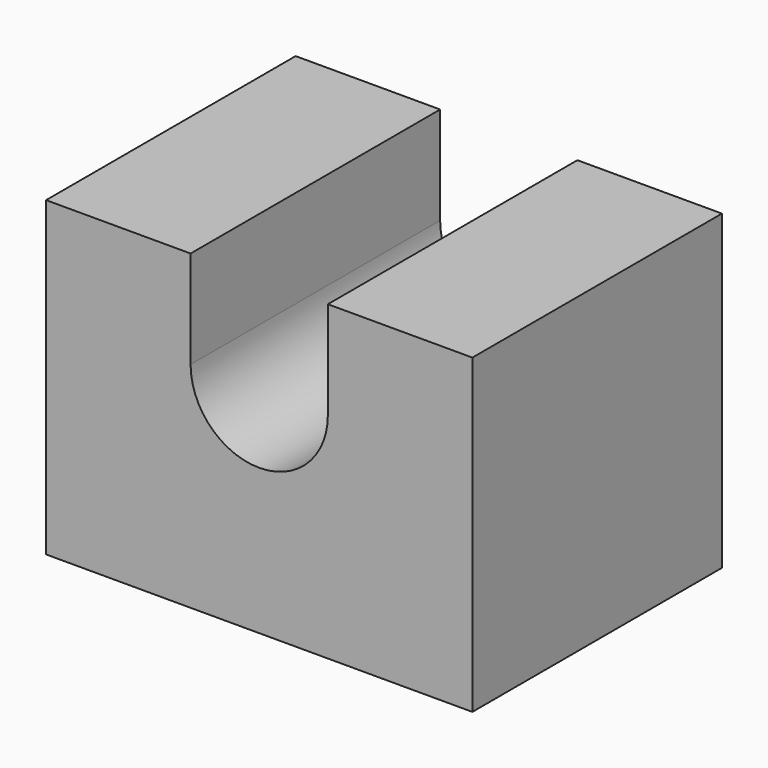
from build123d import *

# Parameters (mm, degrees)
F0_W     = 20.5
F0_H     = 15
F1_DEPTH = 15
F3_DEPTH = 15.001


with BuildPart() as f1:
    # F0 (on Front) → F1 (new body)
    with BuildSketch(Plane.XZ):
        with Locations((10.25, 7.5)):
            Rectangle(F0_W, F0_H)
    extrude(amount=F1_DEPTH)

    # F2 (on face) → F3 (cut, through all)
    with BuildSketch(Plane.XZ.offset(15)):
        with BuildLine():
            ThreePointArc((6.950002, 10.303269), (10.248365, 7), (13.55, 10.3))
            ThreePointArc((13.55, 10.3), (10.251635, 13.6), (6.950002, 10.303269))
        make_face()
        with BuildLine():
            ThreePointArc((6.950002, 10.303269), (10.251635, 13.6), (13.55, 10.3))
            Line((13.55, 10.3), (13.55, 15))
            Line((13.55, 15), (6.950002, 15))
            Line((6.950002, 15), (6.950002, 10.303269))
        make_face()
    extrude(amount=-F3_DEPTH, mode=Mode.SUBTRACT)


solid = f1.part
